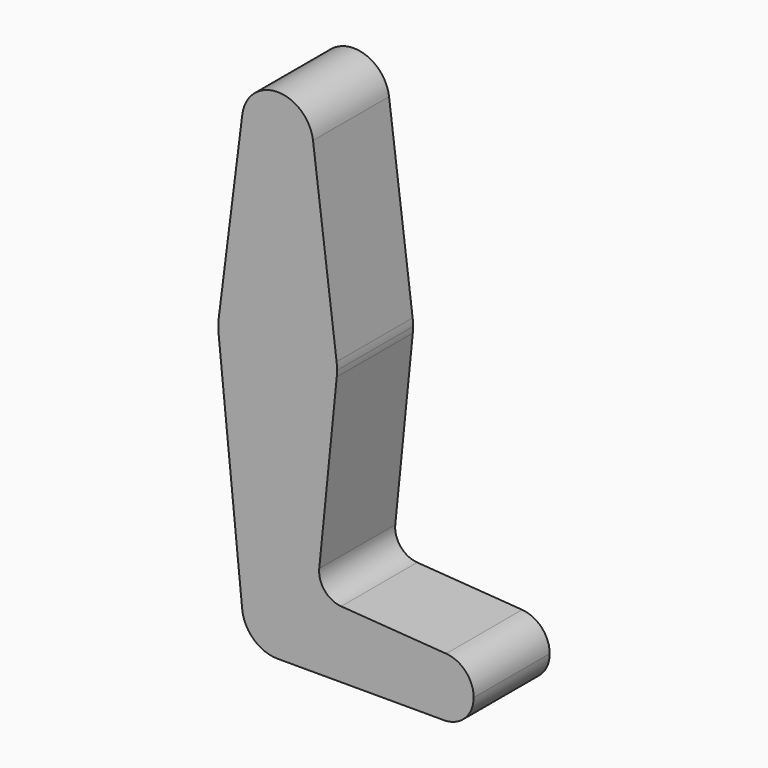
from build123d import *

# Parameters (mm, degrees)
F1_DEPTH = 25.4


with BuildPart() as f1:
    # F0 (on Front) → F1 (new body)
    with BuildSketch(Plane.XZ):
        with BuildLine():
            ThreePointArc((-9.450293, 93.230621), (-0.596483, 82.533691), (9.525, 92.039996))
            ThreePointArc((9.525, 92.039996), (9.506305, 92.636479), (9.450293, 93.230621))
            ThreePointArc((9.450293, 93.230621), (0, 101.564996), (-9.450293, 93.230621))
        make_face()
        with BuildLine():
            ThreePointArc((9.450293, 93.230621), (9.506305, 92.636479), (9.525, 92.039996))
            ThreePointArc((9.525, 92.039996), (-0.596483, 82.533691), (-9.450293, 93.230621))
            Line((-9.450293, 93.230621), (-15.750488, 43.224371))
            ThreePointArc((-15.750488, 43.224371), (0, 57.114996), (15.750488, 43.224371))
            Line((15.750488, 43.224371), (9.450293, 93.230621))
        make_face()
        with BuildLine():
            ThreePointArc((15.875, 41.239996), (15.843841, 42.234134), (15.750488, 43.224371))
            ThreePointArc((15.750488, 43.224371), (0, 57.114996), (-15.750488, 43.224371))
            ThreePointArc((-15.750488, 43.224371), (-15.873744, 41.439701), (-15.795426, 39.652496))
            ThreePointArc((-15.795426, 39.652496), (0, 25.364996), (15.795426, 39.652496))
            ThreePointArc((15.795426, 39.652496), (15.855094, 40.445249), (15.875, 41.239996))
        make_face()
        with BuildLine():
            ThreePointArc((15.795426, 39.652496), (0, 25.364996), (-15.795426, 39.652496))
            Line((-15.795426, 39.652496), (-9.477255, -23.212504))
            ThreePointArc((-9.477255, -23.212504), (-0.476848, -12.746948), (9.525, -22.260004))
            ThreePointArc((9.525, -22.260004), (6.735192, -28.995197), (0, -31.785004))
            Line((0, -31.785004), (44.45, -31.785004))
            ThreePointArc((44.45, -31.785004), (36.517557, -23.564203), (45.016242, -15.930227))
            Line((45.016242, -15.930227), (16.976273, -13.924815))
            ThreePointArc((16.976273, -13.924815), (12.570945, -11.679907), (11.111096, -6.955993))
            Line((11.111096, -6.955993), (15.795426, 39.652496))
        make_face()
        with BuildLine():
            ThreePointArc((9.525, -22.260004), (-0.476848, -12.746948), (-9.477255, -23.212504))
            ThreePointArc((-9.477255, -23.212504), (-6.389564, -29.323934), (0, -31.785004))
            ThreePointArc((0, -31.785004), (6.735192, -28.995197), (9.525, -22.260004))
        make_face()
        with BuildLine():
            ThreePointArc((45.016242, -15.930227), (36.517557, -23.564203), (44.45, -31.785004))
            ThreePointArc((44.45, -31.785004), (50.06266, -29.460165), (52.3875, -23.847504))
            ThreePointArc((52.3875, -23.847504), (50.259408, -18.438745), (45.016242, -15.930227))
        make_face()
    extrude(amount=F1_DEPTH)


solid = f1.part
